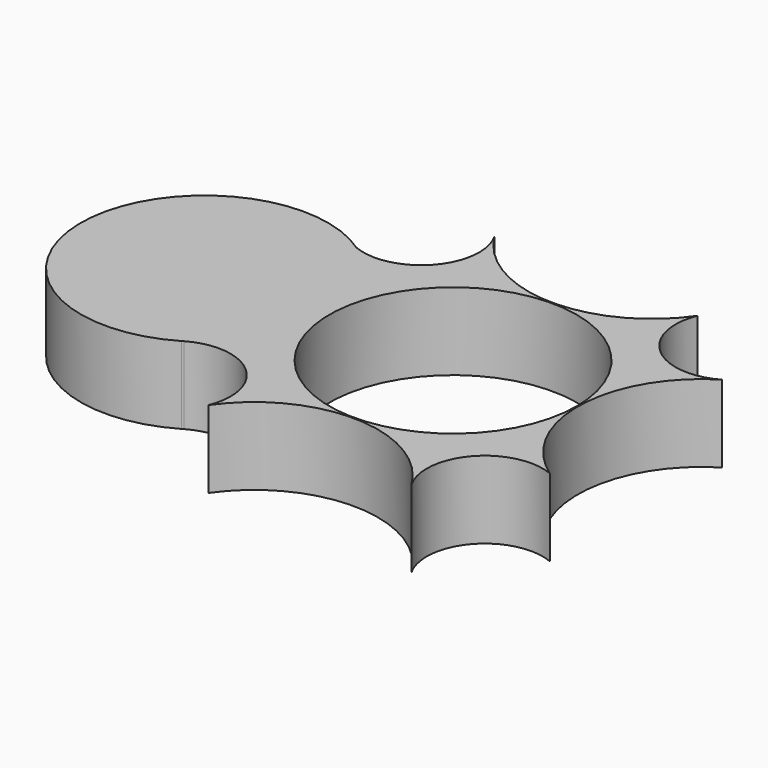
from build123d import *

# Parameters (mm, degrees)
F0_R     = 11.2
F1_DEPTH = 7


with BuildPart() as f1:
    # F0 (on Top) → F1 (new body)
    with BuildSketch(Plane.XY):
        with BuildLine():
            ThreePointArc((16.670946, 9.571158), (10.604447, 10.193071), (9.2226, 16.132741))
            ThreePointArc((9.2226, 16.132741), (-0.320607, 11.292144), (-9.571158, 16.670946))
            ThreePointArc((-9.571158, 16.670946), (-10.193071, 10.604447), (-16.132741, 9.2226))
            ThreePointArc((-16.132741, 9.2226), (-12.572568, 5.208939), (-11.287555, 0))
            ThreePointArc((-11.287555, 0), (-12.725741, -5.490627), (-16.670946, -9.571158))
            ThreePointArc((-16.670946, -9.571158), (-10.604447, -10.193071), (-9.2226, -16.132741))
            ThreePointArc((-9.2226, -16.132741), (0.320607, -11.292144), (9.571158, -16.670946))
            ThreePointArc((9.571158, -16.670946), (10.193071, -10.604447), (16.132741, -9.2226))
            ThreePointArc((16.132741, -9.2226), (11.292144, 0.320607), (16.670946, 9.571158))
        make_face()
        Circle(F0_R, mode=Mode.SUBTRACT)
        with BuildLine():
            ThreePointArc((-11.287555, 0), (-12.572568, 5.208939), (-16.132741, 9.2226))
            ThreePointArc((-16.132741, 9.2226), (-33.679626, 0.421351), (-16.844158, -9.6743))
            ThreePointArc((-16.844158, -9.6743), (-16.758047, -9.621897), (-16.670946, -9.571158))
            ThreePointArc((-16.670946, -9.571158), (-12.725741, -5.490627), (-11.287555, 0))
        make_face()
    extrude(amount=F1_DEPTH)


solid = f1.part
